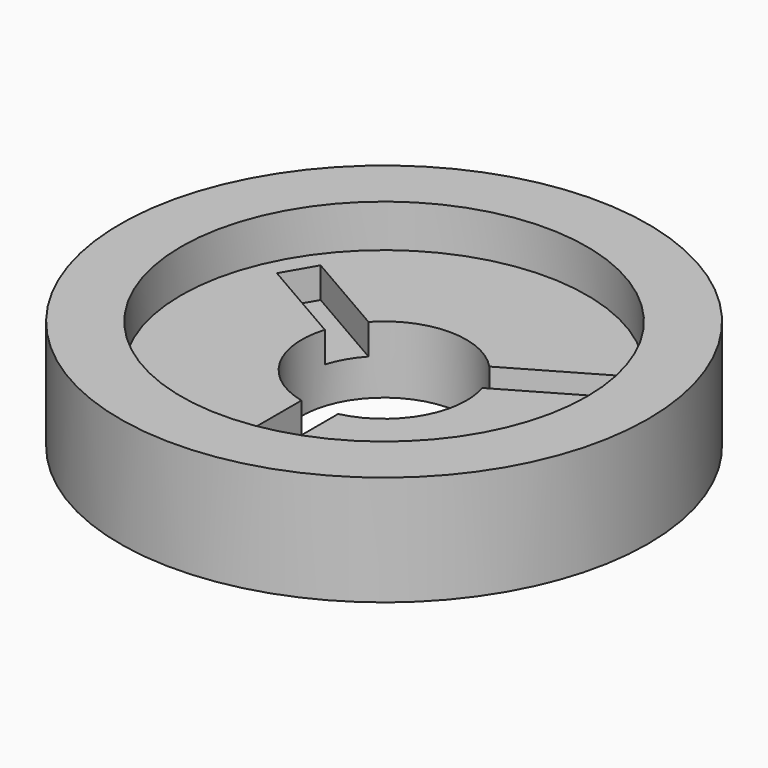
from build123d import *

# Parameters (mm, degrees)
SKETCH_R           = 43.25
PAD_DEPTH          = 18
SKETCH001_R        = 33.25
POCKET_DEPTH       = 7
SKETCH002_R        = 13.5
POCKET001_DEPTH    = 11.001
SKETCH003_W        = 6
SKETCH003_H        = 30
POCKET002_DEPTH    = 5
POLARPATTERN_COUNT = 3


with BuildPart() as part:
    # Sketch → Pad (new body)
    with BuildSketch(Plane.XY):
        Circle(SKETCH_R)
    extrude(amount=PAD_DEPTH)

    # Sketch001 (on Face3 of Pad) → Pocket (cut)
    with BuildSketch(Plane.XY.offset(18)):
        Circle(SKETCH001_R)
    extrude(amount=-POCKET_DEPTH, mode=Mode.SUBTRACT)

    # Sketch002 (on Face5 of Pocket) → Pocket001 (cut, through all)
    with BuildSketch(Plane.XY.offset(11)):
        Circle(SKETCH002_R)
    extrude(amount=-POCKET001_DEPTH, mode=Mode.SUBTRACT)

    # Sketch003 (on Face6 of Pocket001) → Pocket002 (cut)
    with BuildSketch(Plane.XY.offset(11)):
        with Locations((0, -15)):
            Rectangle(SKETCH003_W, SKETCH003_H)
    pocket002 = extrude(amount=-POCKET002_DEPTH, mode=Mode.SUBTRACT)

    # PolarPattern: Pocket002 ×3 about axis
    polarpattern_axis = Axis((0, 0, 11), (0, 0, 1))
    for i in range(1, POLARPATTERN_COUNT):
        add(pocket002.rotate(polarpattern_axis, i * 360 / POLARPATTERN_COUNT), mode=Mode.SUBTRACT)


solid = part.part
